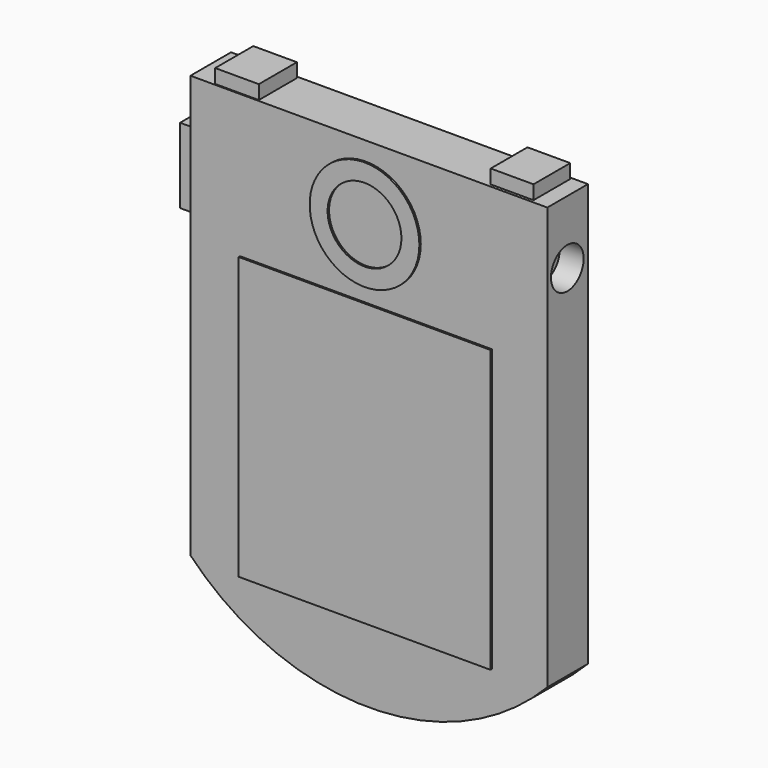
from build123d import *

# Parameters (mm, degrees)
F1_DEPTH  = 7.366
F2_W      = 36.5513302386
F2_H      = 40.8684201539
F3_DEPTH  = 0.254
F2_R      = 7.9616167592
F2_R_2    = 5.3554300859
F4_W      = 3.0288121673
F4_H      = 5.454486236
F5_DEPTH  = 2.032
F7_DEPTH  = 0.254
F8_W      = 6.3317231834
F8_H      = 6.9073382765
F9_DEPTH  = 2.032
F8_W_2    = 6.2107169069
F8_H_2    = 6.6653245594
F10_R     = 2.9631404217
F11_DEPTH = 3.4798
F13_DEPTH = 0.254


with BuildPart() as f1:
    # F0 (on Front) → F1 (new body)
    with BuildSketch(Plane.XZ):
        with BuildLine():
            Line((-4.8926975578, 46.0489243269), (-56.6977337003, 46.0489243269))
            Line((-56.6977337003, 46.0489243269), (-56.6977337003, -15.2537049726))
            ThreePointArc((-56.6977337003, -15.2537049726), (-30.795215629, -26.260280288), (-4.8926975578, -15.2537049726))
            Line((-4.8926975578, -15.2537049726), (-4.8926975578, 46.0489243269))
        make_face()
    extrude(amount=F1_DEPTH)

    # F10 (on face) → F11 (cut)
    with BuildSketch(Plane.YZ.offset(-4.8926975578)):
        with Locations((-3.741475055, 36.8391387165)):
            Circle(F10_R)
    extrude(amount=-F11_DEPTH, mode=Mode.SUBTRACT)


with BuildPart() as f3:
    # F2 (on face) → F3 (new body)
    with BuildSketch(Plane.XZ.offset(7.366)):
        with Locations((-31.2269236892, 4.8926975578)):
            Rectangle(F2_W, F2_H)
    extrude(amount=F3_DEPTH)


with BuildPart() as f3b:
    # F2 (on face) → F3, piece 2 (new body)
    with BuildSketch(Plane.XZ.offset(7.366)):
        with Locations((-31.2269236892, 35.4001075029)):
            Circle(F2_R)
        with Locations((-31.2269236892, 35.4001075029)):
            Circle(F2_R_2, mode=Mode.SUBTRACT)
    extrude(amount=F3_DEPTH)


with BuildPart() as f5:
    # F4 (on face) → F5 (new body)
    with BuildSketch(Plane(origin=(-56.6977337003, 0, 0), x_dir=(0, -1, 0), z_dir=(-1, 0, 0))):
        with Locations((5.1974060837, 36.386703141)):
            Rectangle(F4_W, F4_H)
        with Locations((5.1974060837, 30.9322169051)):
            Rectangle(F4_W, F4_H)
    extrude(amount=F5_DEPTH)


with BuildPart() as f7:
    # F6 (on face) → F7 (new body)
    with BuildSketch(Plane(origin=(-56.6977337003, 0, 0), x_dir=(0, -1, 0), z_dir=(-1, 0, 0))):
        Polygon((6.3851624727, 0.154071301), (1.0607517324, 3.0020113448), (1.0607517324, -9.6497004224), (6.3851624727, -11.5070533696), align=None)
    extrude(amount=F7_DEPTH)


with BuildPart() as f9:
    # F8 (on face) → F9 (new body)
    with BuildSketch(Plane.XY.offset(46.0489243269)):
        with Locations((-50.0782001764, -3.7414757535)):
            Rectangle(F8_W, F8_H)
    extrude(amount=F9_DEPTH)


with BuildPart() as f9b:
    # F8 (on face) → F9, piece 2 (new body)
    with BuildSketch(Plane.XY.offset(46.0489243269)):
        with Locations((-10.3494704235, -3.6046080058)):
            Rectangle(F8_W_2, F8_H_2)
    extrude(amount=F9_DEPTH)


with BuildPart() as f13:
    # F12 (on face) → F13 (new body)
    with BuildSketch(Plane(origin=(0, 0, 0), x_dir=(-1, 0, 0), z_dir=(0, 1, 0))):
        with BuildLine():
            add(Edge.make_bspline(
                [(37.9658814311, 15.2476904657), (38.2691568797, 17.2861614502), (44.2235218983, 21.1442410272), (36.2827291762, 23.4912048852), (32.0720889453, 19.7789623292), (28.5845616604, 22.9367994762), (23.1629401078, 21.7159921366), (20.2248007204, 15.5174000757), (22.0736262178, 5.694463869), (27.6646008004, 1.5743841481), (31.285875674, 4.4786447817), (37.2381136551, 0.651620368), (43.5687909465, 8.8249085535), (37.6403086509, 13.0593475952), (37.9658814311, 15.2476904657)],
                knots=[0, 0, 0, 0, 0.0884834432, 0.1647690899, 0.2433018614, 0.3106427185, 0.3857442711, 0.4725916215, 0.5810815103, 0.6636182265, 0.7297867694, 0.812908301, 0.9050111022, 1, 1, 1, 1], degree=3))
        make_face()
    extrude(amount=F13_DEPTH)


with BuildPart() as f13b:
    # F12 (on face) → F13, piece 2 (new body)
    with BuildSketch(Plane(origin=(0, 0, 0), x_dir=(-1, 0, 0), z_dir=(0, 1, 0))):
        with BuildLine():
            add(Edge.make_bspline(
                [(36.397062242, 28.7041198462), (35.8733517965, 29.259220262), (32.8254484734, 27.6573757529), (30.0676811551, 22.7811330289), (35.8153821145, 23.6533178277), (36.9892720908, 28.0764143344), (36.397062242, 28.7041198462)],
                knots=[0, 0, 0, 0, 0.2366597446, 0.4908887348, 0.7323860298, 1, 1, 1, 1], degree=3))
        make_face()
    extrude(amount=F13_DEPTH)


solid = Compound([f1.part, f3.part, f3b.part, f5.part, f7.part, f9.part, f9b.part, f13.part, f13b.part])
